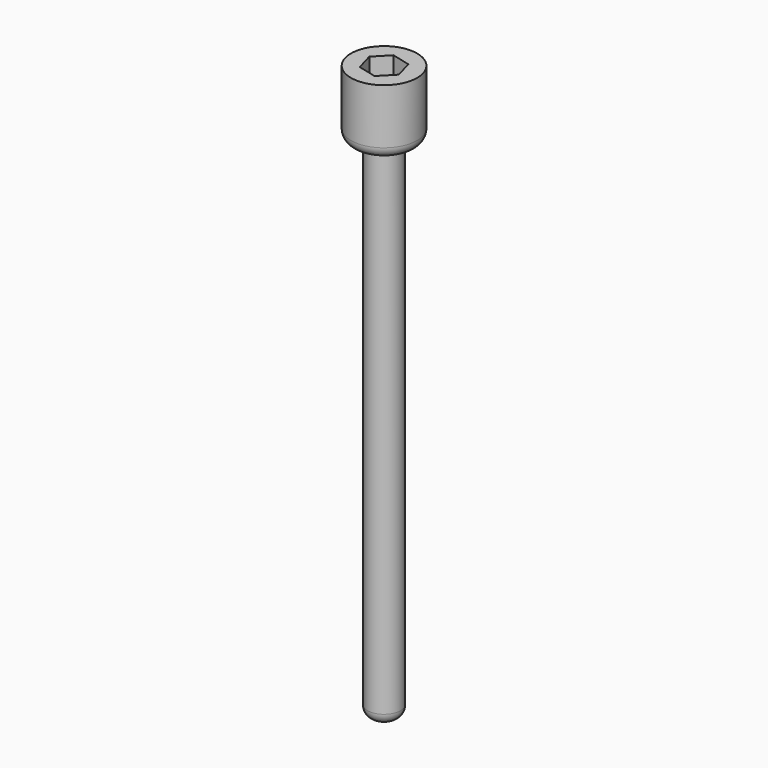
from build123d import *

# Parameters (mm, degrees)
F0_R     = 1.5
F1_DEPTH = 52
F2_R     = 3
F2_R_2   = 1.5
F3_DEPTH = 6
F5_DEPTH = 5
F6_R     = 1


with BuildPart() as f1:
    # F0 (on Top) → F1 (new body)
    with BuildSketch(Plane.XY):
        Circle(F0_R)
    extrude(amount=F1_DEPTH)

    # F2 (on face) → F3 (join)
    with BuildSketch(Plane.XY.offset(52)):
        Circle(F2_R)
        Circle(F2_R_2, mode=Mode.SUBTRACT)
        Circle(F2_R_2)
    extrude(amount=-F3_DEPTH)

    # F4 (on face) → F5 (cut)
    with BuildSketch(Plane.XY.offset(52)):
        Polygon((0.471543, -1.666628), (1.679113, -0.424946), (1.20757, 1.241682), (-0.471543, 1.666628), (-1.679113, 0.424946), (-1.20757, -1.241682), align=None)
    extrude(amount=-F5_DEPTH, mode=Mode.SUBTRACT)

    # F6
    f6_edges = [f1.edges().sort_by_distance(p)[0] for p in [
        (-1.5, 0, 0),
        (-3, 0, 46),
    ]]
    fillet(f6_edges, radius=F6_R)


solid = f1.part
